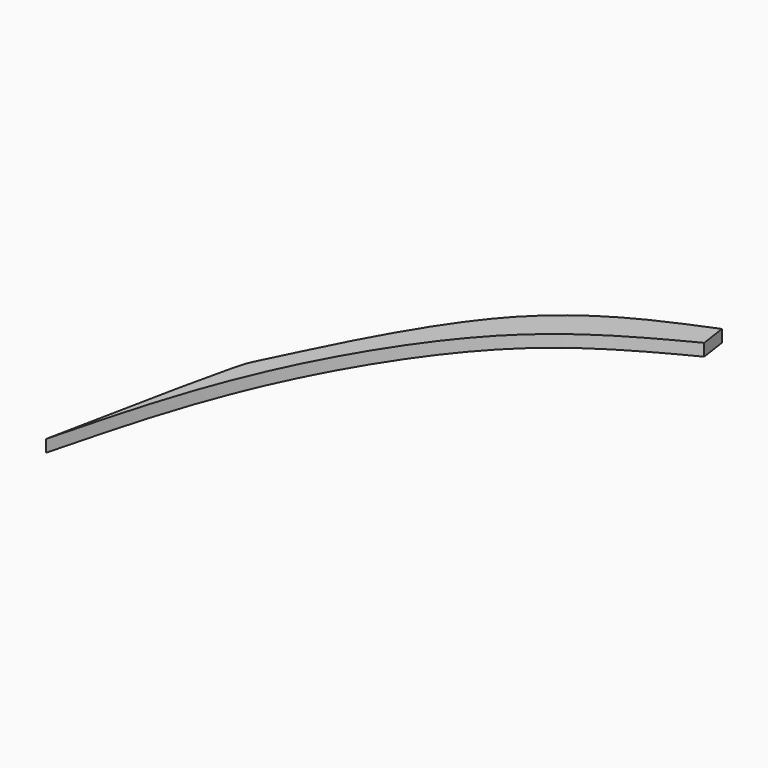
from build123d import *

# Parameters (mm, degrees)
F2_DEPTH = 3


with BuildPart() as f2:
    # F1 (on face) → F2 (new body)
    with BuildSketch(Plane.XY):
        with BuildLine():
            add(Edge.make_bspline(
                [(-82.888789475, -33.9542515576), (-78.6430063088, -12.8294348201), (-73.1481029922, 14.5103564532), (-70.6635181609, 17.4368679279), (-48.7223429606, 67.0977554261), (-22.6679218677, 77.7960509921), (-10.0292805582, 82.9856470227)],
                knots=[0, 0, 0, 0, 0.3101914588, 0.4014505708, 0.7096519046, 1, 1, 1, 1], degree=3))
            add(Edge.make_bspline(
                [(-82.888789475, -33.9542515576), (-78.8432504968, -18.2636977957), (-70.6670834969, 13.4474261291), (-42.5271863476, 58.8935003545), (-19.5660097192, 70.8548628644), (-9.0683298185, 76.3235092163)],
                knots=[0, 0, 0, 0, 0.3470990203, 0.7014985076, 1, 1, 1, 1], degree=3))
            Line((-9.0683298185, 76.3235092163), (-10.0292805582, 82.9856470227))
        make_face()
    extrude(amount=F2_DEPTH)


solid = f2.part
